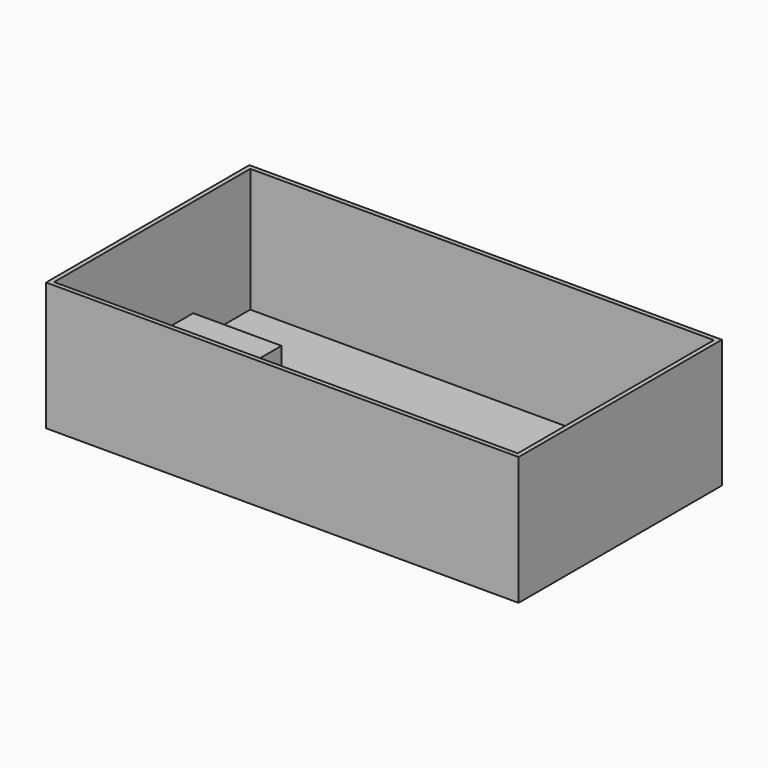
from build123d import *

# Parameters (mm, degrees)
BOX003_W     = 71
BOX003_H     = 25
BOX003_DEPTH = 50
BOX004_W     = 71
BOX004_H     = 25
BOX004_DEPTH = 50
BOX002_W     = 100
BOX002_H     = 105
BOX002_DEPTH = 30
BOX001_W     = 520
BOX001_H     = 275
BOX001_DEPTH = 140
BOX005_W     = 530
BOX005_H     = 285
BOX005_DEPTH = 144


with BuildPart() as wheelhole1:
    # Box003 → Box003 (new body)
    with BuildSketch(Plane(origin=(450, -1, -1), x_dir=(1, 0, 0), z_dir=(0, 0, 1))):
        with Locations((35.5, 12.5)):
            Rectangle(BOX003_W, BOX003_H)
    extrude(amount=BOX003_DEPTH)


with BuildPart() as wheelhole2:
    # Box004 → Box004 (new body)
    with BuildSketch(Plane(origin=(450, 251, -1), x_dir=(1, 0, 0), z_dir=(0, 0, 1))):
        with Locations((35.5, 12.5)):
            Rectangle(BOX004_W, BOX004_H)
    extrude(amount=BOX004_DEPTH)


with BuildPart() as fusion:
    # Box002 → Box002 (new body)
    with BuildSketch(Plane(origin=(-1, 90, -1), x_dir=(1, 0, 0), z_dir=(0, 0, 1))):
        with Locations((50, 52.5)):
            Rectangle(BOX002_W, BOX002_H)
    extrude(amount=BOX002_DEPTH)

    # Fusion: union wheelhole1, wheelhole2
    add(wheelhole1.part)
    add(wheelhole2.part)


with BuildPart() as cavity:
    # Box001 → Box001 (new body)
    with BuildSketch(Plane.XY):
        with Locations((260, 137.5)):
            Rectangle(BOX001_W, BOX001_H)
    extrude(amount=BOX001_DEPTH)

    # Cut: cut Fusion
    add(fusion.part, mode=Mode.SUBTRACT)


with BuildPart() as suitcase:
    # Box005 → Box005 (new body)
    with BuildSketch(Plane(origin=(-5, -5, -5), x_dir=(1, 0, 0), z_dir=(0, 0, 1))):
        with Locations((265, 142.5)):
            Rectangle(BOX005_W, BOX005_H)
    extrude(amount=BOX005_DEPTH)

    # Cut001: cut cavity
    add(cavity.part, mode=Mode.SUBTRACT)


with BuildPart() as suitcase_1:
    # Cut001 placement: moved
    add(suitcase.part.moved(Location((0, -142.5, 0))))


solid = suitcase_1.part
